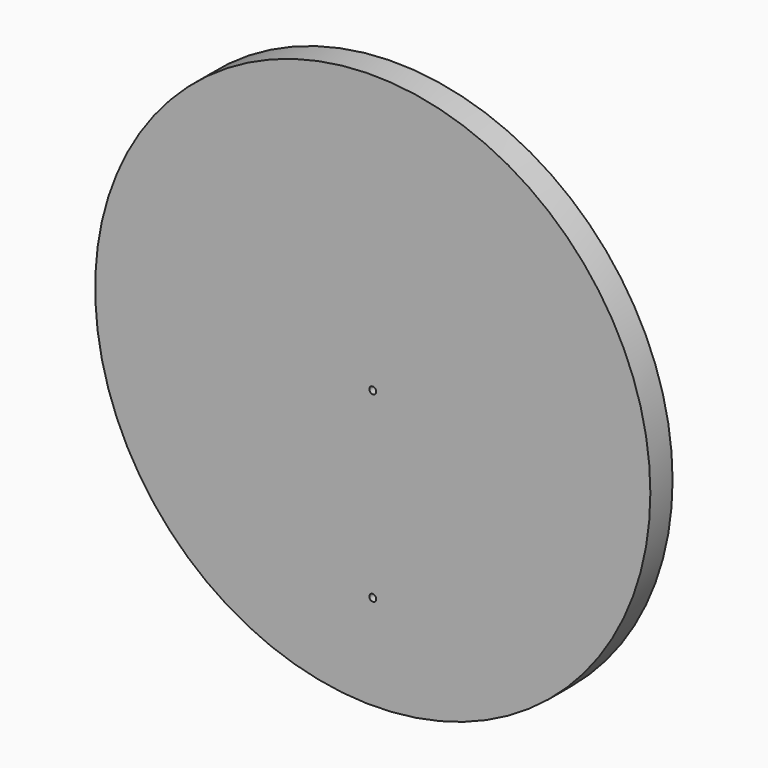
from build123d import *

# Parameters (mm, degrees)
F0_R     = 100
F1_DEPTH = 10
F3_R     = 6
F3_R_2   = 2.5
F4_DEPTH = 25
F5_D     = 2.5


with BuildPart() as f1:
    # F0 (on Front) → F1 (new body)
    with BuildSketch(Plane.XZ):
        Circle(F0_R)
    extrude(amount=F1_DEPTH)

    # F3 (on face) → F4 (join)
    with BuildSketch(Plane(origin=(0, 0, 0), x_dir=(-1, 0, 0), z_dir=(0, 1, 0))):
        Circle(F3_R)
        Circle(F3_R_2, mode=Mode.SUBTRACT)
    extrude(amount=F4_DEPTH)

    # F5 (through all)
    with Locations(Plane.XZ.offset(10)):
        with Locations((0, 0), (0, -65.783132)):
            Hole(F5_D / 2)


solid = f1.part
